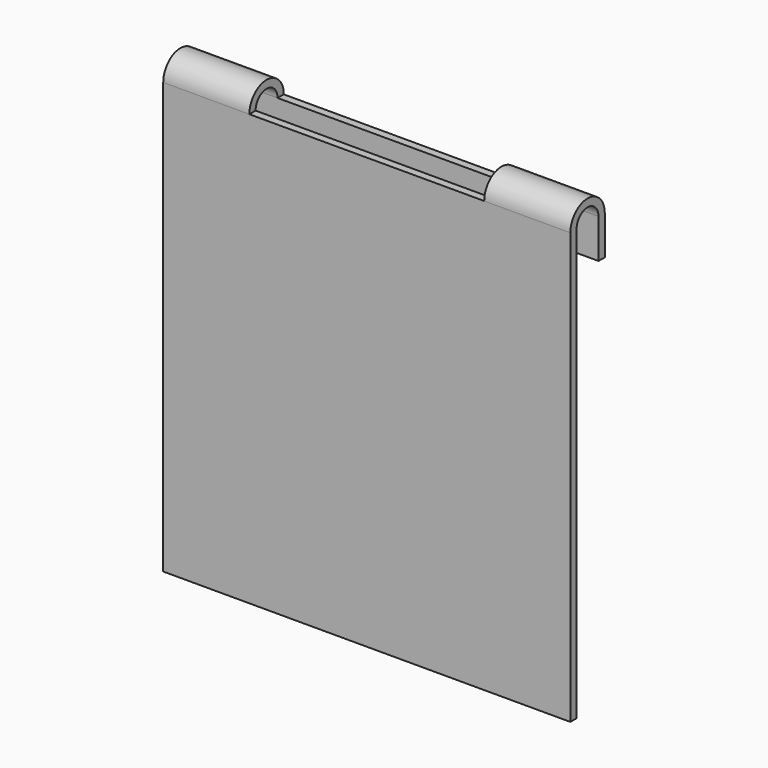
from build123d import *

# Parameters (mm, degrees)
F1_DEPTH = 26
F2_W     = 30
F2_H     = 9
F3_DEPTH = 25


with BuildPart() as f1:
    # F0 (on Right) → F1 (new body, symmetric)
    with BuildSketch(Plane.YZ):
        with BuildLine():
            Line((-2.75, 0), (-1.75, 0))
            Line((-1.75, 0), (-1.75, 55))
            ThreePointArc((-1.75, 55), (0, 56.75), (1.75, 55))
            Line((1.75, 55), (1.75, 50))
            Line((1.75, 50), (2.75, 50))
            Line((2.75, 50), (2.75, 55))
            ThreePointArc((2.75, 55), (0, 57.75), (-2.75, 55))
            Line((-2.75, 55), (-2.75, 0))
        make_face()
    extrude(amount=F1_DEPTH, both=True)

    # F2 (on face) → F3 (cut)
    with BuildSketch(Plane.XZ.offset(2.75)):
        with Locations((0, 59.5)):
            Rectangle(F2_W, F2_H)
    extrude(amount=-F3_DEPTH, mode=Mode.SUBTRACT)


solid = f1.part
